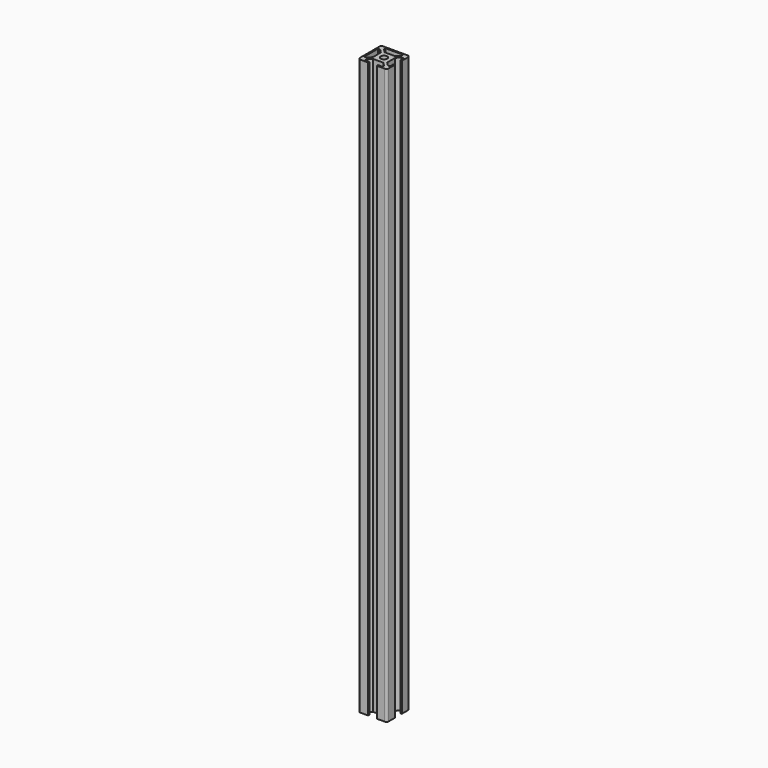
from build123d import *

# Parameters (mm, degrees)
SKETCH_R  = 2.25
PAD_DEPTH = 400
FILLET_R  = 1.5


with BuildPart() as part:
    # Sketch → Pad (new body)
    with BuildSketch(Plane(origin=(0, 0, 0), x_dir=(1, 0, 0), z_dir=(0, 0, -1))):
        Polygon((7, 0), (7, -1), (4, -1), (4, -2.5), (6.499998, -5), (13.500002, -5), (16, -2.5), (16, -1), (13, -1), (13, 0), (20, 0), (20, -7), (19, -7), (19, -4), (17.5, -4), (15.000002, -6.5), (15.000002, -13.500005), (17.5, -16.000005), (19, -16.000005), (19, -13.000005), (20, -13.000005), (20, -20.000005), (13, -20.000005), (7, -20.000005), (0, -20.000005), (0, -13.000005), (0, -7), (0, 0), align=None)
        with Locations((10, -10.000002)):
            Circle(SKETCH_R, mode=Mode.SUBTRACT)
        Polygon((7, -19.000005), (4, -19.000005), (4, -17.500005), (6.499998, -15.000005), (13.500002, -15.000005), (16, -17.500005), (16, -19.000005), (13, -19.000005), align=None, mode=Mode.SUBTRACT)
        Polygon((1, -7), (1, -4), (2.5, -4), (4.999998, -6.5), (4.999998, -13.500005), (2.5, -16.000005), (1, -16.000005), (1, -13.000005), align=None, mode=Mode.SUBTRACT)
    extrude(amount=PAD_DEPTH)

    # Fillet
    fillet_edges = [part.edges().sort_by_distance(p)[0] for p in [
        (0, 20.000005, -200),
        (0, 0, -200),
        (20, 0, -200),
        (20, 20.000005, -200),
    ]]
    fillet(fillet_edges, radius=FILLET_R)


solid = part.part
